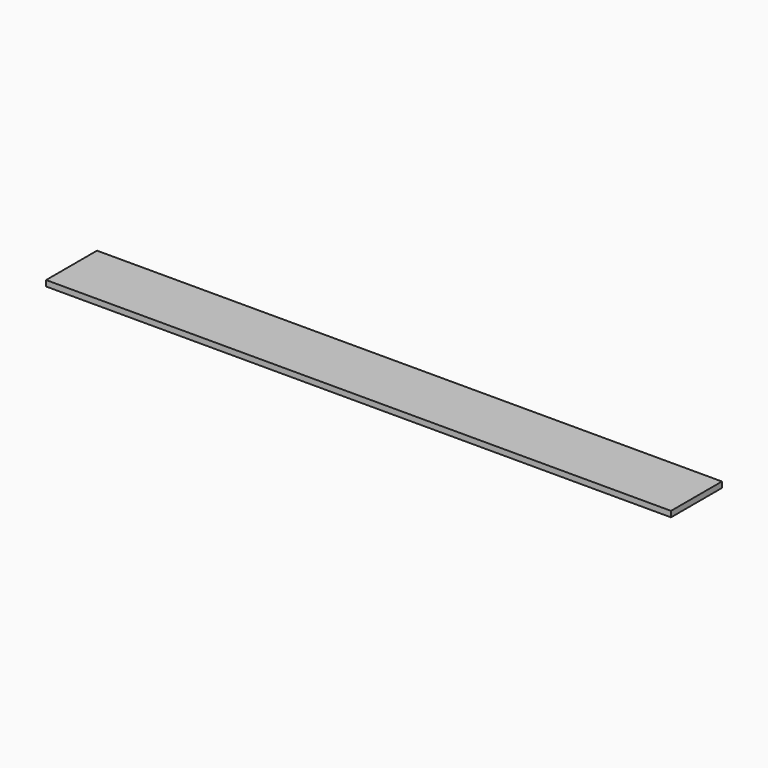
from build123d import *

# Parameters (mm, degrees)
F0_W     = 1964
F0_H     = 200
F1_DEPTH = 18
F2_R     = 3
F3_DEPTH = 5


with BuildPart() as f1:
    # F0 (on Top) → F1 (new body)
    with BuildSketch(Plane.XY):
        Rectangle(F0_W, F0_H)
    extrude(amount=F1_DEPTH)

    # F2 (on face) → F3 (cut)
    with BuildSketch(Plane(origin=(0, 0, 0), x_dir=(1, 0, 0), z_dir=(0, 0, -1))):
        with Locations((-350, 0)):
            Circle(F2_R)
        with Locations((350, 0)):
            Circle(F2_R)
    extrude(amount=-F3_DEPTH, mode=Mode.SUBTRACT)


solid = f1.part
